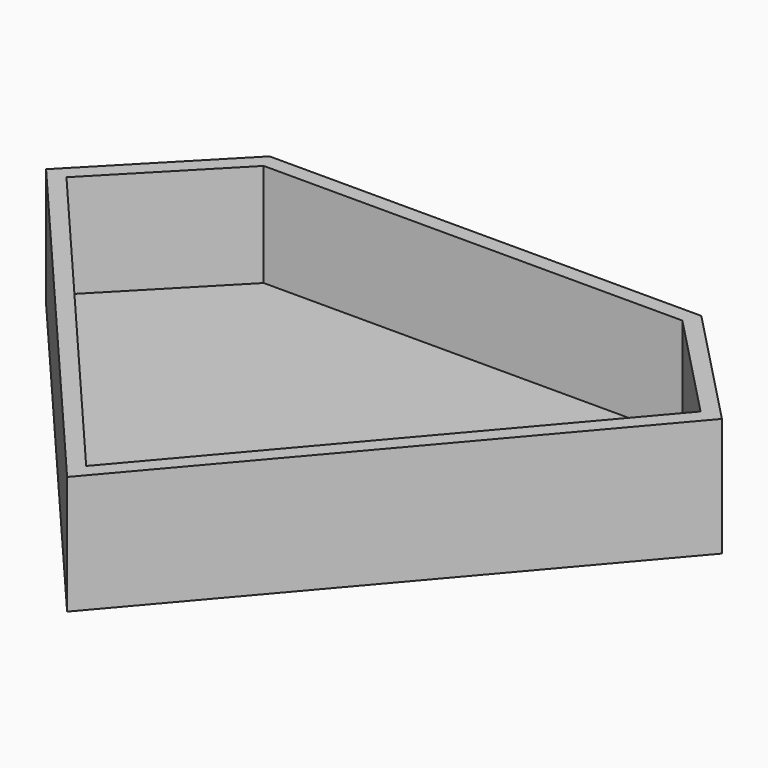
from build123d import *

# Parameters (mm, degrees)
F1_DEPTH = 10
F2_DEPTH = 10
F3_T     = 1.5
F4_R     = 5.8821297936
F5_DEPTH = 25.4


with BuildPart() as f1:
    # F0 (on Top) → F1 (new body)
    with BuildSketch(Plane.XY):
        Polygon((0, 16.2254609168), (-19.0141089261, 16.2254609168), (-26.4055486768, 8.4195453674), (0, -22.3205629736), (26.4055486768, 8.4195453674), (19.0141089261, 16.2254609168), align=None)
    extrude(amount=F1_DEPTH)

    # F0 (on Top) → F2 (join)
    with BuildSketch(Plane.XY):
        Polygon((-19.0141089261, 16.2254609168), (-20.2486366034, 19.1267747432), (-30.752800405, 8.3410236984), (-26.4055486768, 8.4195453674), align=None)
        Polygon((20.3608628362, 19.1267747432), (-20.2486366034, 19.1267747432), (-19.0141089261, 16.2254609168), (0, 16.2254609168), (19.0141089261, 16.2254609168), align=None)
        Polygon((30.752800405, 8.3410236984), (20.3608628362, 19.1267747432), (19.0141089261, 16.2254609168), (26.4055486768, 8.4195453674), align=None)
        Polygon((0, -27.7087166905), (30.752800405, 8.3410236984), (26.4055486768, 8.4195453674), (0, -22.3205629736), align=None)
        Polygon((-26.4055486768, 8.4195453674), (-30.752800405, 8.3410236984), (0, -27.7087166905), (0, -22.3205629736), align=None)
    extrude(amount=F2_DEPTH)

    # F3
    f3_openings = [f1.faces().sort_by_distance(p)[0] for p in [
        (0.008676, 1.980184, 10),
    ]]
    offset(amount=F3_T, openings=f3_openings, kind=Kind.INTERSECTION)

    # F4 (on face) → F5 (cut)
    with BuildSketch(Plane(origin=(0, 0, -1.5), x_dir=(1, 0, 0), z_dir=(0, 0, -1))):
        Circle(F4_R)
    extrude(amount=F5_DEPTH, mode=Mode.SUBTRACT)


solid = f1.part
